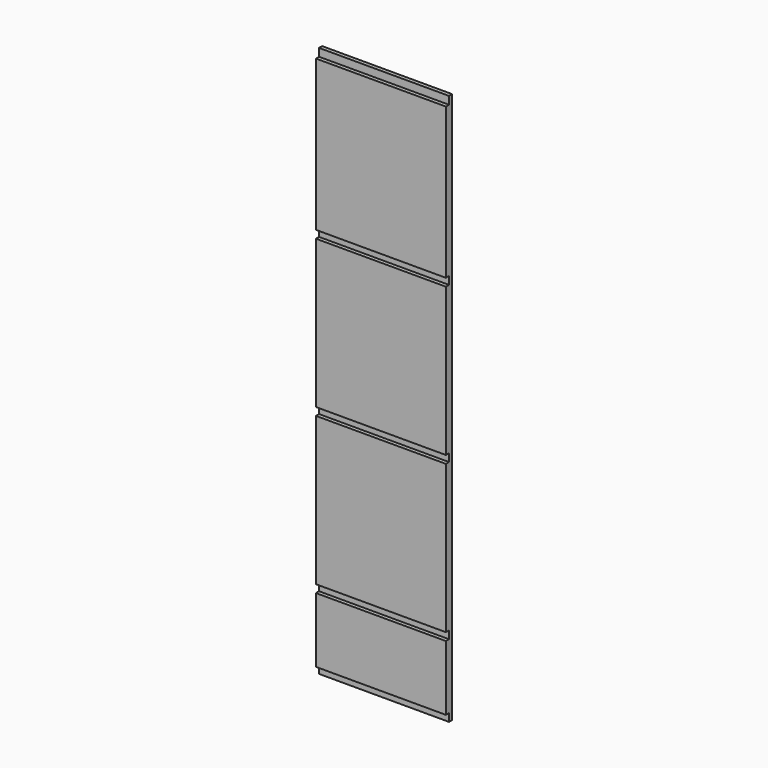
from build123d import *

# Parameters (mm, degrees)
F0_W      = 317.5
F0_H      = 1346.2
F1_DEPTH  = 19.05
F2_W      = 317.5
F2_H      = 9.525
F3_DEPTH  = 19.05
F4_W      = 317.5
F4_H      = 9.525
F5_DEPTH  = 19.05
F6_W      = 317.5
F6_H      = 19.05
F7_DEPTH  = 9.525
F8_W      = 317.5
F8_H      = 19.05
F9_DEPTH  = 9.525
F10_W     = 317.5
F10_H     = 19.05
F11_DEPTH = 9.525


with BuildPart() as f1:
    # F0 (on Front) → F1 (new body)
    with BuildSketch(Plane.XZ):
        with Locations((158.75, 673.1)):
            Rectangle(F0_W, F0_H)
    extrude(amount=F1_DEPTH)

    # F2 (on face) → F3 (cut)
    with BuildSketch(Plane.XY.offset(1346.2)):
        with Locations((158.75, -14.2875)):
            Rectangle(F2_W, F2_H)
    extrude(amount=-F3_DEPTH, mode=Mode.SUBTRACT)

    # F4 (on face) → F5 (cut)
    with BuildSketch(Plane(origin=(0, 0, 0), x_dir=(1, 0, 0), z_dir=(0, 0, -1))):
        with Locations((158.75, 14.2875)):
            Rectangle(F4_W, F4_H)
    extrude(amount=-F5_DEPTH, mode=Mode.SUBTRACT)

    # F6 (on face) → F7 (cut)
    with BuildSketch(Plane.XZ.offset(19.05)):
        with Locations((158.75, 187.325)):
            Rectangle(F6_W, F6_H)
    extrude(amount=-F7_DEPTH, mode=Mode.SUBTRACT)

    # F8 (on face) → F9 (cut)
    with BuildSketch(Plane.XZ.offset(19.05)):
        with Locations((158.75, 568.325)):
            Rectangle(F8_W, F8_H)
    extrude(amount=-F9_DEPTH, mode=Mode.SUBTRACT)

    # F10 (on face) → F11 (cut)
    with BuildSketch(Plane.XZ.offset(19.05)):
        with Locations((158.75, 949.325)):
            Rectangle(F10_W, F10_H)
    extrude(amount=-F11_DEPTH, mode=Mode.SUBTRACT)


solid = f1.part
